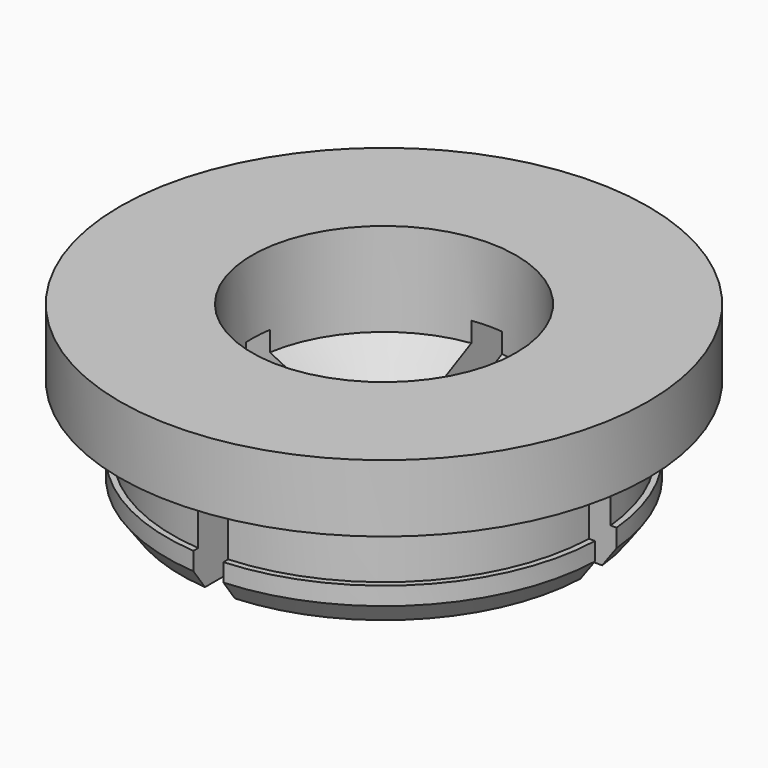
from build123d import *

# Parameters (mm, degrees)
F2_W     = 1.4320742339
F2_H     = 10.2768599463
F2_H_2   = 1.3312373485
F2_W_2   = 9.8557149176
F2_W_3   = 10.3864191915
F2_H_3   = 10.473964212
F3_DEPTH = 4.7


with BuildPart() as f1:
    # F0 (on Front) → F1 (revolve)
    with BuildSketch(Plane.XZ):
        Polygon((12.5, -3.1834620679), (12.5, 0), (6.25, 0), (6.25, -4.415623378), (0, -7.5521533836), (0, -8.1757782027), (9.5998626202, -8.1757782027), (10.2797849104, -7.2368667919), (10.2797849104, -6.384960963), (10, -6.3834620679), (10, -3.1834620679), align=None)
    revolve(axis=Axis((0, 0, -7.8639657932), (0, 0, -1)))

    # F2 (on face) → F3 (cut)
    with BuildSketch(Plane(origin=(0, 0, -8.1757782027), x_dir=(1, 0, 0), z_dir=(0, 0, -1))):
        with Locations((-0.1055269386, 5.5018373096)):
            Rectangle(F2_W, F2_H)
        with Locations((-0.1055269386, -0.3022113378)):
            Rectangle(F2_W, F2_H_2)
        with Locations((-5.7494215143, -0.3022113378)):
            Rectangle(F2_W_2, F2_H_2)
        with Locations((5.8037197741, -0.3022113378)):
            Rectangle(F2_W_3, F2_H_2)
        with Locations((-0.1055269386, -6.2048121181)):
            Rectangle(F2_W, F2_H_3)
    extrude(amount=-F3_DEPTH, mode=Mode.SUBTRACT)


solid = f1.part
